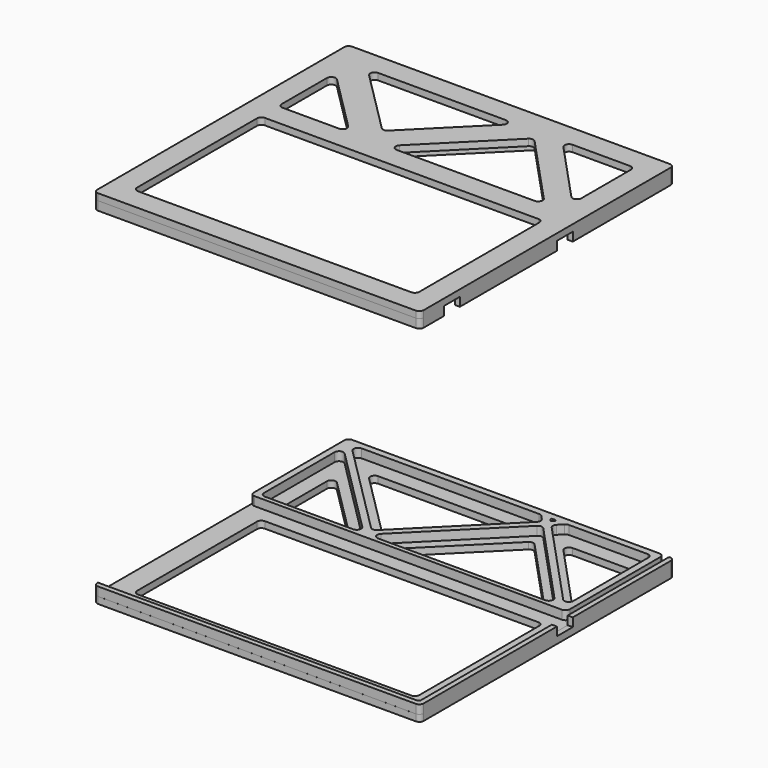
from build123d import *

# Parameters (mm, degrees)
F1_DEPTH = 3
F3_DEPTH = 4
F6_W     = 9
F6_H     = 4
F6_H_2   = 4.05
F7_DEPTH = 25
F8_DEPTH = 25


with BuildPart() as f1:
    # F0 (on Top) → F1 (new body)
    with BuildSketch(Plane.XY):
        with BuildLine():
            Line((-72, -72), (72, -72))
            ThreePointArc((72, -72), (73.4142135624, -71.4142135624), (74, -70))
            Line((74, -70), (74, 70))
            ThreePointArc((74, 70), (73.4142135624, 71.4142135624), (72, 72))
            Line((72, 72), (-72, 72))
            ThreePointArc((-72, 72), (-73.4142135624, 71.4142135624), (-74, 70))
            Line((-74, 70), (-74, -70))
            ThreePointArc((-74, -70), (-73.4142135624, -71.4142135624), (-72, -72))
        make_face()
        with BuildLine():
            Line((-64, -60), (-64, 8))
            ThreePointArc((-64, 8), (-63.4142135624, 9.4142135624), (-62, 10))
            Line((-62, 10), (62, 10))
            ThreePointArc((62, 10), (63.4142135624, 9.4142135624), (64, 8))
            Line((64, 8), (64, -60))
            ThreePointArc((64, -60), (63.4142135624, -61.4142135624), (62, -62))
            Line((62, -62), (-62, -62))
            ThreePointArc((-62, -62), (-63.4142135624, -61.4142135624), (-64, -60))
        make_face(mode=Mode.SUBTRACT)
        with BuildLine():
            Line((-36.3646270819, 20), (-62, 20))
            ThreePointArc((-62, 20), (-63.4142135624, 20.5857864376), (-64, 22))
            Line((-64, 22), (-64, 47.6353729181))
            ThreePointArc((-64, 47.6353729181), (-62.7653668647, 49.4831319831), (-60.5857864376, 49.0495864805))
            Line((-60.5857864376, 49.0495864805), (-34.9504135195, 23.4142135624))
            ThreePointArc((-34.9504135195, 23.4142135624), (-34.5168680169, 21.2346331353), (-36.3646270819, 20))
        make_face(mode=Mode.SUBTRACT)
        with BuildLine():
            Line((-24.7108535285, 29.6537735534), (-53.6428664127, 58.5857864376))
            ThreePointArc((-53.6428664127, 58.5857864376), (-54.0764119153, 60.7653668647), (-52.2286528503, 62))
            Line((-52.2286528503, 62), (5.6353729181, 62))
            ThreePointArc((5.6353729181, 62), (7.4831319831, 60.7653668647), (7.0495864805, 58.5857864376))
            Line((7.0495864805, 58.5857864376), (-21.8824264037, 29.6537735534))
            ThreePointArc((-21.8824264037, 29.6537735534), (-23.2966399661, 29.0679871158), (-24.7108535285, 29.6537735534))
        make_face(mode=Mode.SUBTRACT)
        with BuildLine():
            ThreePointArc((-10.2286528503, 20), (-12.0764119153, 21.2346331353), (-11.6428664127, 23.4142135624))
            Line((-11.6428664127, 23.4142135624), (20.7862314611, 55.8433114361))
            ThreePointArc((20.7862314611, 55.8433114361), (22.237324511, 56.4287578207), (23.6658434559, 55.790203099))
            Line((23.6658434559, 55.790203099), (53.7869447141, 23.3611052253))
            ThreePointArc((53.7869447141, 23.3611052253), (54.1548780098, 21.2006910643), (52.3215462817, 20))
            Line((52.3215462817, 20), (-10.2286528503, 20))
        make_face(mode=Mode.SUBTRACT)
        with BuildLine():
            ThreePointArc((62, 62), (63.4142135624, 61.4142135624), (64, 60))
            Line((64, 60), (64, 31.8984874971))
            ThreePointArc((64, 31.8984874971), (62.7311645284, 30.0369294313), (60.5346015676, 30.5373822718))
            Line((60.5346015676, 30.5373822718), (34.4330890647, 58.6388947747))
            ThreePointArc((34.4330890647, 58.6388947747), (34.065155769, 60.7993089357), (35.8984874971, 62))
            Line((35.8984874971, 62), (62, 62))
        make_face(mode=Mode.SUBTRACT)
        with BuildLine():
            Line((-72, -72), (72, -72))
            ThreePointArc((72, -72), (73.4142135624, -71.4142135624), (74, -70))
            Line((74, -70), (74, 70))
            ThreePointArc((74, 70), (73.4142135624, 71.4142135624), (72, 72))
            Line((72, 72), (-72, 72))
            ThreePointArc((-72, 72), (-73.4142135624, 71.4142135624), (-74, 70))
            Line((-74, 70), (-74, -70))
            ThreePointArc((-74, -70), (-73.4142135624, -71.4142135624), (-72, -72))
        make_face()
        with BuildLine():
            Line((-64, -60), (-64, 8))
            ThreePointArc((-64, 8), (-63.4142135624, 9.4142135624), (-62, 10))
            Line((-62, 10), (62, 10))
            ThreePointArc((62, 10), (63.4142135624, 9.4142135624), (64, 8))
            Line((64, 8), (64, -60))
            ThreePointArc((64, -60), (63.4142135624, -61.4142135624), (62, -62))
            Line((62, -62), (-62, -62))
            ThreePointArc((-62, -62), (-63.4142135624, -61.4142135624), (-64, -60))
        make_face(mode=Mode.SUBTRACT)
        with BuildLine():
            Line((-36.3646270819, 20), (-62, 20))
            ThreePointArc((-62, 20), (-63.4142135624, 20.5857864376), (-64, 22))
            Line((-64, 22), (-64, 47.6353729181))
            ThreePointArc((-64, 47.6353729181), (-62.7653668647, 49.4831319831), (-60.5857864376, 49.0495864805))
            Line((-60.5857864376, 49.0495864805), (-34.9504135195, 23.4142135624))
            ThreePointArc((-34.9504135195, 23.4142135624), (-34.5168680169, 21.2346331353), (-36.3646270819, 20))
        make_face(mode=Mode.SUBTRACT)
        with BuildLine():
            Line((-24.7108535285, 29.6537735534), (-53.6428664127, 58.5857864376))
            ThreePointArc((-53.6428664127, 58.5857864376), (-54.0764119153, 60.7653668647), (-52.2286528503, 62))
            Line((-52.2286528503, 62), (5.6353729181, 62))
            ThreePointArc((5.6353729181, 62), (7.4831319831, 60.7653668647), (7.0495864805, 58.5857864376))
            Line((7.0495864805, 58.5857864376), (-21.8824264037, 29.6537735534))
            ThreePointArc((-21.8824264037, 29.6537735534), (-23.2966399661, 29.0679871158), (-24.7108535285, 29.6537735534))
        make_face(mode=Mode.SUBTRACT)
        with BuildLine():
            ThreePointArc((-10.2286528503, 20), (-12.0764119153, 21.2346331353), (-11.6428664127, 23.4142135624))
            Line((-11.6428664127, 23.4142135624), (20.7862314611, 55.8433114361))
            ThreePointArc((20.7862314611, 55.8433114361), (22.237324511, 56.4287578207), (23.6658434559, 55.790203099))
            Line((23.6658434559, 55.790203099), (53.7869447141, 23.3611052253))
            ThreePointArc((53.7869447141, 23.3611052253), (54.1548780098, 21.2006910643), (52.3215462817, 20))
            Line((52.3215462817, 20), (-10.2286528503, 20))
        make_face(mode=Mode.SUBTRACT)
        with BuildLine():
            ThreePointArc((62, 62), (63.4142135624, 61.4142135624), (64, 60))
            Line((64, 60), (64, 31.8984874971))
            ThreePointArc((64, 31.8984874971), (62.7311645284, 30.0369294313), (60.5346015676, 30.5373822718))
            Line((60.5346015676, 30.5373822718), (34.4330890647, 58.6388947747))
            ThreePointArc((34.4330890647, 58.6388947747), (34.065155769, 60.7993089357), (35.8984874971, 62))
            Line((35.8984874971, 62), (62, 62))
        make_face(mode=Mode.SUBTRACT)
    extrude(amount=F1_DEPTH)

    # F2 (on face) → F3 (join)
    with BuildSketch(Plane.XY.offset(3)):
        with BuildLine():
            Line((70.7, -69.7), (-73.8, -69.7))
            ThreePointArc((-73.8, -69.7), (-73.9414213562, -69.7585786438), (-74, -69.9))
            Line((-74, -69.9), (-74, -69.9894766808))
            ThreePointArc((-74, -69.9894766808), (-73.4142135624, -71.4036902431), (-72, -71.9894766808))
            Line((-72, -71.9894766808), (71.7, -71.9894766808))
            Line((71.7, -71.9894766808), (72, -71.9894766808))
            ThreePointArc((72, -71.9894766808), (73.4142135624, -71.4036902431), (74, -69.9894766808))
            Line((74, -69.9894766808), (74, -69.7))
            Line((74, -69.7), (74, 11.6405133158))
            Line((74, 11.6405133158), (74, 16.7))
            Line((74, 16.7), (74, 20))
            Line((74, 20), (74, 22.3925133158))
            Line((74, 22.3925133158), (74, 70))
            ThreePointArc((74, 70), (73.5096973503, 71.3117979686), (72.2791860895, 71.9804179174))
            ThreePointArc((72.2791860895, 71.9804179174), (71.874885695, 71.8607985472), (71.7, 71.4771547067))
            Line((71.7, 71.4771547067), (71.7, -68.7))
            ThreePointArc((71.7, -68.7), (71.4071067812, -69.4071067812), (70.7, -69.7))
        make_face()
        with BuildLine():
            Line((66.3, 72), (-72, 72))
            ThreePointArc((-72, 72), (-73.4142135624, 71.4142135624), (-74, 70))
            Line((-74, 70), (-74, 18.7))
            ThreePointArc((-74, 18.7), (-73.4142135624, 17.2857864376), (-72, 16.7))
            Line((-72, 16.7), (67.3, 16.7))
            ThreePointArc((67.3, 16.7), (68.7142135624, 17.2857864376), (69.3, 18.7))
            Line((69.3, 18.7), (69.3, 70))
            ThreePointArc((69.3, 70), (68.7142135624, 71.4142135624), (67.3, 72))
            Line((67.3, 72), (66.3, 72))
        make_face()
        with BuildLine():
            Line((-28.9467392111, 18.7), (-69, 18.7))
            ThreePointArc((-69, 18.7), (-70.4142135624, 19.2857864376), (-71, 20.7))
            Line((-71, 20.7), (-71, 60.7532607889))
            ThreePointArc((-71, 60.7532607889), (-69.7653668647, 62.601019854), (-67.5857864376, 62.1674743513))
            Line((-67.5857864376, 62.1674743513), (-27.5325256487, 22.1142135624))
            ThreePointArc((-27.5325256487, 22.1142135624), (-27.098980146, 19.9346331353), (-28.9467392111, 18.7))
        make_face(mode=Mode.SUBTRACT)
        with BuildLine():
            ThreePointArc((-66.7614578368, 65.5857864376), (-67.1950033395, 67.7653668647), (-65.3472442744, 69))
            Line((-65.3472442744, 69), (15.1782452294, 69))
            ThreePointArc((15.1782452294, 69), (15.9775541651, 68.8333317281), (16.6436436618, 68.3611052253))
            Line((16.6436436618, 68.3611052253), (18.3655342228, 66.5072766733))
            ThreePointArc((18.3655342228, 66.5072766733), (18.8997957373, 65.1092919606), (18.3143493527, 63.7319578857))
            Line((18.3143493527, 63.7319578857), (-21.8824264037, 23.5351821293))
            ThreePointArc((-21.8824264037, 23.5351821293), (-23.2966399661, 22.9493956916), (-24.7108535285, 23.5351821293))
            Line((-24.7108535285, 23.5351821293), (-66.7614578368, 65.5857864376))
        make_face(mode=Mode.SUBTRACT)
        with BuildLine():
            Line((58.1830489303, 18.7), (-17.6465407211, 18.7))
            ThreePointArc((-17.6465407211, 18.7), (-19.4942997861, 19.9346331353), (-19.0607542835, 22.1142135624))
            Line((-19.0607542835, 22.1142135624), (20.2530323816, 61.4280002274))
            ThreePointArc((20.2530323816, 61.4280002274), (21.7041254314, 62.013446612), (23.1326443764, 61.3748918903))
            Line((23.1326443764, 61.3748918903), (59.6484473627, 22.0611052253))
            ThreePointArc((59.6484473627, 22.0611052253), (60.0163806584, 19.9006910643), (58.1830489303, 18.7))
        make_face(mode=Mode.SUBTRACT)
        with BuildLine():
            ThreePointArc((22.4605982993, 69), (22.8898899591, 68.7131564835), (22.789163911, 68.206772444))
            Line((22.789163911, 68.206772444), (22.1410198587, 67.5586283917))
            ThreePointArc((22.1410198587, 67.5586283917), (21.8038859998, 67.422611064), (21.4719968046, 67.5709671032))
            Line((21.4719968046, 67.5709671032), (20.8699815186, 68.2191111556))
            ThreePointArc((20.8699815186, 68.2191111556), (20.7844992183, 68.7210422778), (21.210438961, 69))
            Line((21.210438961, 69), (22.4605982993, 69))
        make_face(mode=Mode.SUBTRACT)
        with BuildLine():
            Line((25.2061482079, 66.3811160537), (27.2392457165, 68.4142135624))
            ThreePointArc((27.2392457165, 68.4142135624), (27.8880924142, 68.847759065), (28.6534592789, 69))
            Line((28.6534592789, 69), (64.3, 69))
            ThreePointArc((64.3, 69), (65.7142135624, 68.4142135624), (66.3, 67))
            Line((66.3, 67), (66.3, 24.4001029735))
            ThreePointArc((66.3, 24.4001029735), (65.0311645284, 22.5385449076), (62.8346015676, 23.0389977482))
            Line((62.8346015676, 23.0389977482), (25.1549633378, 63.6057972661))
            ThreePointArc((25.1549633378, 63.6057972661), (24.6207018233, 65.0037819788), (25.2061482079, 66.3811160537))
        make_face(mode=Mode.SUBTRACT)
    extrude(amount=F3_DEPTH)


with BuildPart() as f4_1:
    # F4: instance of F1
    add(f1.part.mirror(Plane(origin=(-2.1378054528, 46.0911552296, 7), x_dir=(1, 0, 0), z_dir=(0, 0, 1))))


with BuildPart() as f4_1_1:
    # F5: moved
    add(f4_1.part.moved(Location((0, 0, 150))))


with BuildPart() as f7_tool:
    # F6 (on face) → F7 (new body)
    with BuildSketch(Plane.YZ.offset(74)):
        with Locations((-53.9894766808, 159)):
            Rectangle(F6_W, F6_H)
        with Locations((10.0105233192, 158.9756011963)):
            Rectangle(F6_W, F6_H)
        with Locations((10.0105233192, 5.1288683899)):
            Rectangle(F6_W, F6_H_2)
    extrude(amount=-F7_DEPTH)


with BuildPart() as f1_1:
    add(f1.part)

    # F7: cut by f7_tool
    add(f7_tool.part, mode=Mode.SUBTRACT)

    # F6 (on face) → F8 (cut)
    with BuildSketch(Plane.YZ.offset(74)):
        with Locations((-53.9894766808, 159)):
            Rectangle(F6_W, F6_H)
        with Locations((10.0105233192, 158.9756011963)):
            Rectangle(F6_W, F6_H)
        with Locations((10.0105233192, 5.1288683899)):
            Rectangle(F6_W, F6_H_2)
    extrude(amount=-F8_DEPTH, mode=Mode.SUBTRACT)


with BuildPart() as f4_1_2:
    add(f4_1_1.part)

    # F7: cut by f7_tool
    add(f7_tool.part, mode=Mode.SUBTRACT)


solid = Compound([f1_1.part, f4_1_2.part])
